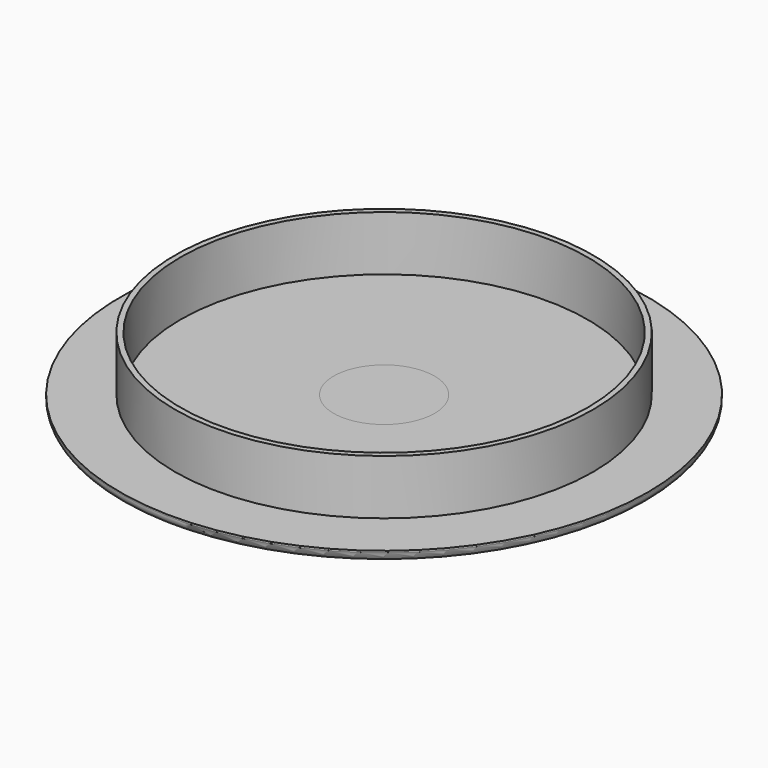
from build123d import *

# Parameters (mm, degrees)
SKETCH_R      = 48.1
PAD_DEPTH     = 2
FILLET_R      = 1.7
SKETCH001_R   = 38.1
SKETCH001_R_2 = 37.1
PAD001_DEPTH  = 10
SKETCH002_R   = 48.1
PAD002_DEPTH  = 2
FILLET001_R   = 1.7
SKETCH003_R   = 38.1
SKETCH003_R_2 = 37.1
PAD003_DEPTH  = 10
SKETCH004_R   = 9.2
POCKET_DEPTH  = 2.001


with BuildPart() as capbody:
    # Sketch → Pad (new body)
    with BuildSketch(Plane.XY):
        Circle(SKETCH_R)
    extrude(amount=PAD_DEPTH)

    # Fillet
    fillet_edges = [capbody.edges().sort_by_distance(p)[0] for p in [
        (-48.1, 0, 0),
    ]]
    fillet(fillet_edges, radius=FILLET_R)

    # Sketch001 (on Face3 of Fillet) → Pad001 (join)
    with BuildSketch(Plane.XY.offset(2)):
        Circle(SKETCH001_R)
        Circle(SKETCH001_R_2, mode=Mode.SUBTRACT)
    extrude(amount=PAD001_DEPTH)


with BuildPart() as capbody001:
    # Sketch002 → Pad002 (new body)
    with BuildSketch(Plane.XY):
        Circle(SKETCH002_R)
    extrude(amount=PAD002_DEPTH)

    # Fillet001
    fillet001_edges = [capbody001.edges().sort_by_distance(p)[0] for p in [
        (-48.1, 0, 0),
    ]]
    fillet(fillet001_edges, radius=FILLET001_R)

    # Sketch003 (on Face3 of Fillet001) → Pad003 (join)
    with BuildSketch(Plane.XY.offset(2)):
        Circle(SKETCH003_R)
        Circle(SKETCH003_R_2, mode=Mode.SUBTRACT)
    extrude(amount=PAD003_DEPTH)

    # Sketch004 (on Face8 of Pad003) → Pocket (cut, through all)
    with BuildSketch(Plane.XY.offset(2)):
        Circle(SKETCH004_R)
    extrude(amount=-POCKET_DEPTH, mode=Mode.SUBTRACT)


solid = Compound([capbody.part, capbody001.part])
